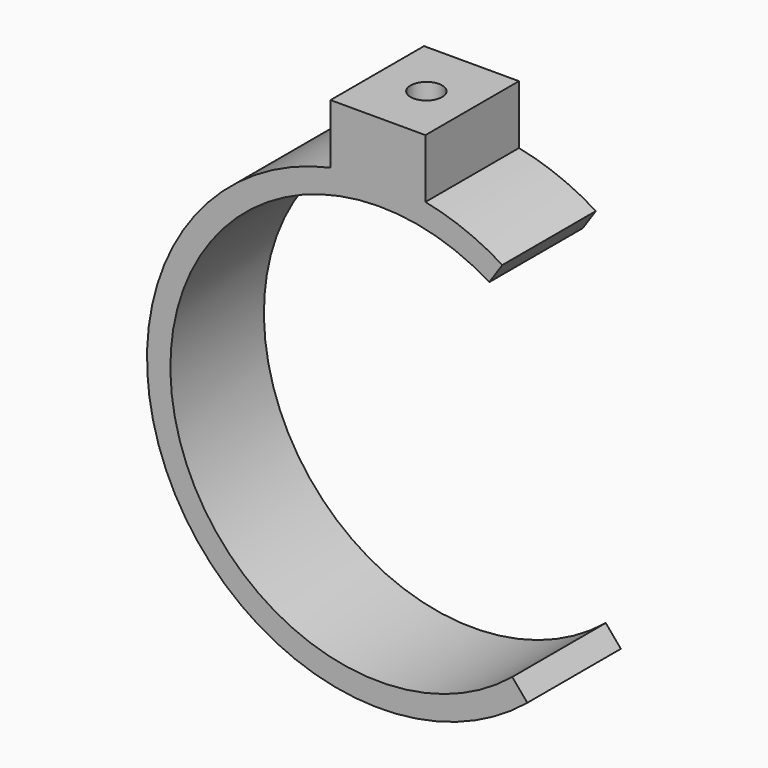
from build123d import *

# Parameters (mm, degrees)
F1_DEPTH = 10
F2_R     = 1.35
F3_DEPTH = 6


with BuildPart() as f1:
    # F0 (on Front) → F1 (new body)
    with BuildSketch(Plane.XZ):
        with BuildLine():
            ThreePointArc((11.34649, -13.844391), (-17.859135, -1.208842), (9.377353, 15.247139))
            Line((9.377353, 15.247139), (10.500295, 16.904254))
            ThreePointArc((10.500295, 16.904254), (7.326353, 18.502285), (3.918794, 19.510332))
            Line((3.918794, 19.510332), (3.918794, 24.546802))
            Line((3.918794, 24.546802), (-4.201883, 24.546802))
            Line((-4.201883, 24.546802), (-4.201883, 19.451328))
            ThreePointArc((-4.201883, 19.451328), (-17.915323, -8.663209), (12.63751, -15.372161))
            Line((12.63751, -15.372161), (11.34649, -13.844391))
        make_face()
    extrude(amount=F1_DEPTH)

    # F2 (on face) → F3 (cut)
    with BuildSketch(Plane.XY.offset(24.546802)):
        with Locations((0, -5)):
            Circle(F2_R)
    extrude(amount=-F3_DEPTH, mode=Mode.SUBTRACT)


solid = f1.part
